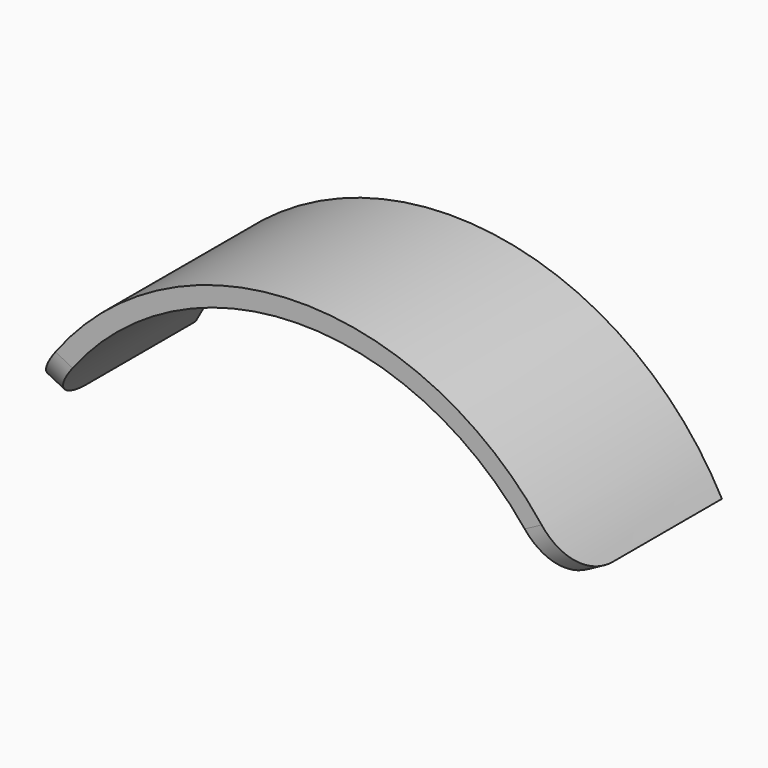
from build123d import *

# Parameters (mm, degrees)
F1_DEPTH = 12.5
F2_R     = 7


with BuildPart() as f1:
    # F0 (on Front) → F1 (new body, symmetric)
    with BuildSketch(Plane.XZ):
        with BuildLine():
            ThreePointArc((-33.9127318794, 17.1442881589), (-0.4519875923, 37.997311842), (33.4953225916, 17.9461239405))
            Line((33.4953225916, 17.9461239405), (35.6989622357, 19.1267899892))
            ThreePointArc((35.6989622357, 19.1267899892), (-0.4817236181, 40.4971349895), (-36.143832661, 18.2722018536))
            Line((-36.143832661, 18.2722018536), (-33.9127318794, 17.1442881589))
        make_face()
    extrude(amount=F1_DEPTH, both=True)

    # F2
    f2_edges = [f1.edges().sort_by_distance(p)[0] for p in [
        (34.597142, -12.5, 18.536457),
        (-35.028282, -12.5, 17.708245),
    ]]
    fillet(f2_edges, radius=F2_R)


solid = f1.part
